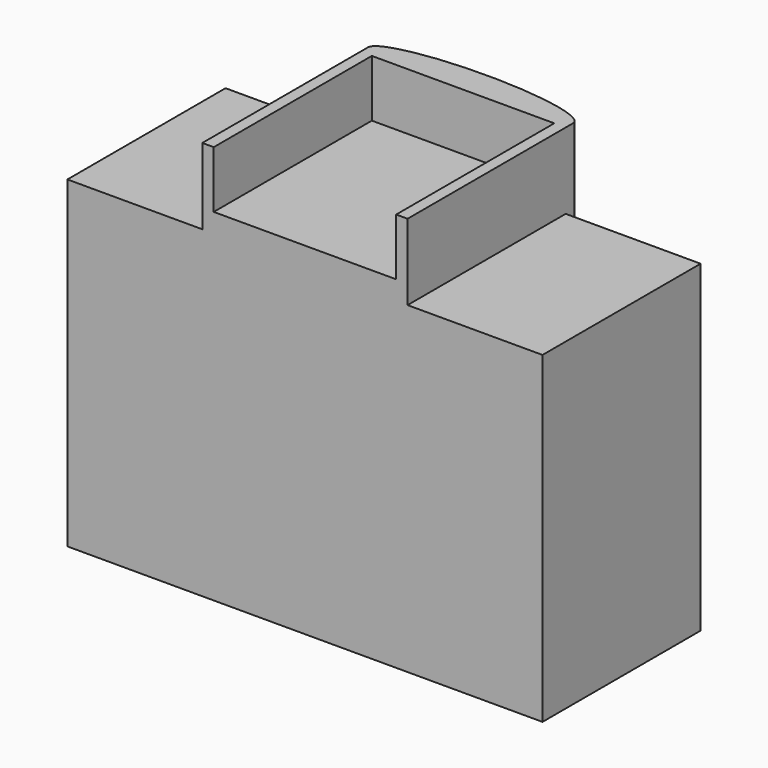
from build123d import *

# Parameters (mm, degrees)
F1_DEPTH = 850
F3_DEPTH = 200
F4_W     = 480
F4_H     = 520
F5_DEPTH = 150


with BuildPart() as f1:
    # F0 (on Top) → F1 (new body)
    with BuildSketch(Plane.XY):
        with BuildLine():
            Line((0, 520), (0, 0))
            Line((0, 0), (1250, 0))
            Line((1250, 0), (1250, 520))
            Line((1250, 520), (895, 520))
            Line((895, 520), (895, 545))
            add(Edge.make_bspline(
                [(895, 545), (895, 600), (625, 600), (355, 600), (355, 545)],
                knots=[3.1415926536, 3.1415926536, 3.1415926536, 4.7123889804, 4.7123889804, 6.2831853072, 6.2831853072, 6.2831853072], degree=2, weights=[1, 0.7071067812, 1, 0.7071067812, 1]))
            Line((355, 545), (355, 520))
            Line((355, 520), (0, 520))
        make_face()
    extrude(amount=F1_DEPTH)

    # F2 (on face) → F3 (join)
    with BuildSketch(Plane.XY.offset(850)):
        with BuildLine():
            Line((895, 520), (895, 545))
            add(Edge.make_bspline(
                [(895, 545), (895, 600), (625, 600), (355, 600), (355, 545)],
                knots=[3.1415926536, 3.1415926536, 3.1415926536, 4.7123889804, 4.7123889804, 6.2831853072, 6.2831853072, 6.2831853072], degree=2, weights=[1, 0.7071067812, 1, 0.7071067812, 1]))
            Line((355, 545), (355, 520))
            Line((355, 520), (355, 0))
            Line((355, 0), (895, 0))
            Line((895, 0), (895, 520))
        make_face()
    extrude(amount=F3_DEPTH)

    # F4 (on face) → F5 (cut)
    with BuildSketch(Plane.XY.offset(1050)):
        with Locations((625, 260)):
            Rectangle(F4_W, F4_H)
    extrude(amount=-F5_DEPTH, mode=Mode.SUBTRACT)


solid = f1.part
